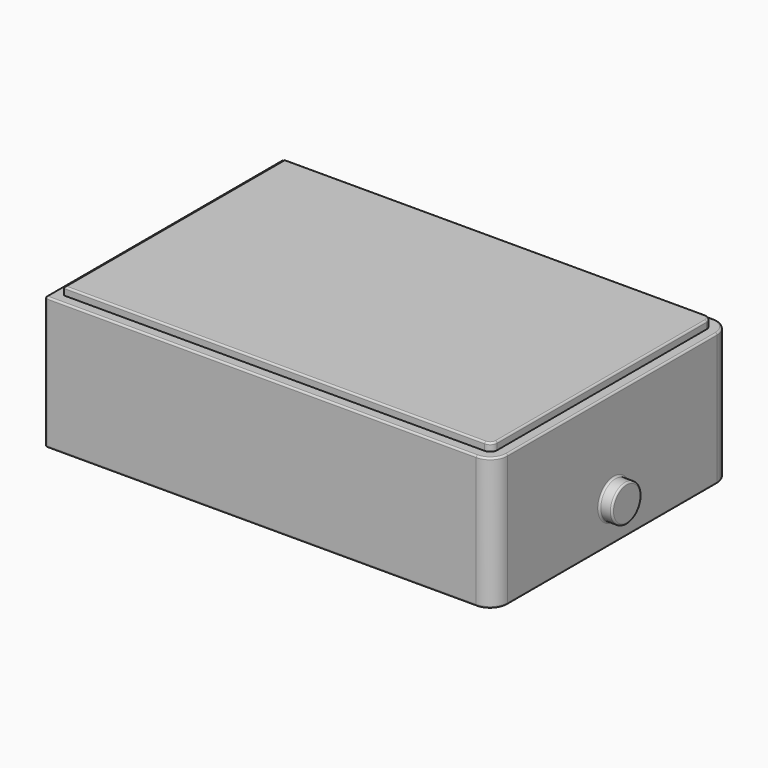
from build123d import *

# Parameters (mm, degrees)
F1_DEPTH = 15.2
F2_R     = 2.1
F3_DEPTH = 1.5
F4_R     = 0.2
F6_DEPTH = 0.9
F7_R     = 0.2


with BuildPart() as f1:
    # F0 (on Top) → F1 (new body)
    with BuildSketch(Plane.XY):
        with BuildLine():
            Line((19.072499, 20.445805), (-30.327501, 20.445805))
            Line((-30.327501, 20.445805), (-30.327501, -13.554195))
            Line((-30.327501, -13.554195), (19.072499, -13.554195))
            ThreePointArc((19.072499, -13.554195), (20.486712, -12.968409), (21.072499, -11.554195))
            Line((21.072499, -11.554195), (21.072499, 18.445805))
            ThreePointArc((21.072499, 18.445805), (20.486712, 19.860018), (19.072499, 20.445805))
        make_face()
    extrude(amount=F1_DEPTH)

    # F2 (on face) → F3 (join)
    with BuildSketch(Plane.YZ.offset(21.072499)):
        with Locations((3.645805, 4.5)):
            Circle(F2_R)
    extrude(amount=F3_DEPTH)

    # F4
    f4_edges = [f1.edges().sort_by_distance(p)[0] for p in [
        (21.072499, 3.445805, 15.2),
        (21.072499, 3.445805, 0),
        (22.572499, 1.545805, 4.5),
        (21.072499, 1.545805, 4.5),
        (-30.327501, 20.445805, 7.6),
        (-30.327501, -13.554195, 7.6),
        (-30.327501, 3.445805, 15.2),
        (-30.327501, 3.445805, 0),
    ]]
    fillet(f4_edges, radius=F4_R)

    # F5 (on face) → F6 (join)
    with BuildSketch(Plane.XY.offset(15.2)):
        with BuildLine():
            Line((-29.127501, 19.245805), (-29.127501, -12.354195))
            Line((-29.127501, -12.354195), (19.072499, -12.354195))
            ThreePointArc((19.072499, -12.354195), (19.638184, -12.119881), (19.872499, -11.554195))
            Line((19.872499, -11.554195), (19.872499, 18.445805))
            ThreePointArc((19.872499, 18.445805), (19.638184, 19.01149), (19.072499, 19.245805))
            Line((19.072499, 19.245805), (-29.127501, 19.245805))
        make_face()
    extrude(amount=F6_DEPTH)

    # F7
    f7_edges = [f1.edges().sort_by_distance(p)[0] for p in [
        (-5.027501, -12.354195, 16.1),
        (19.638184, -12.119881, 16.1),
        (19.872499, 3.445805, 16.1),
        (19.638184, 19.01149, 16.1),
        (-5.027501, 19.245805, 16.1),
        (-29.127501, 3.445805, 16.1),
    ]]
    fillet(f7_edges, radius=F7_R)


solid = f1.part
